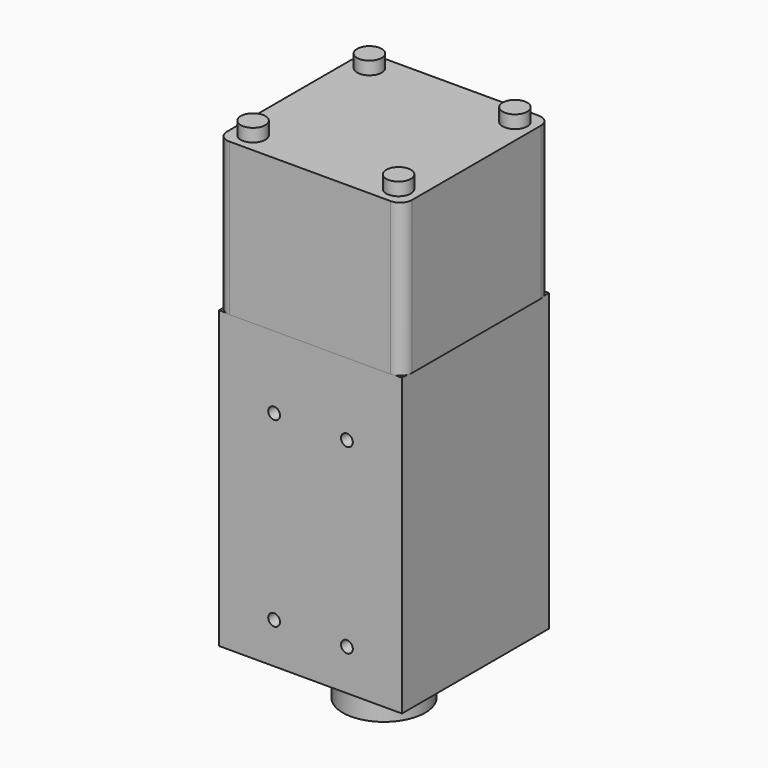
from build123d import *

# Parameters (mm, degrees)
SKETCH070_W     = 40.2
SKETCH070_H     = 40.4
PAD024_DEPTH    = 65
SKETCH071_R     = 1.3
POCKET037_DEPTH = 5
PAD025_DEPTH    = 33.5
SKETCH073_R     = 9.05
PAD026_DEPTH    = 11.66
SKETCH074_R     = 2.71
PAD027_DEPTH    = 2.85


with BuildPart() as part:
    # Sketch070 → Pad024 (new body)
    with BuildSketch(Plane.XY):
        Rectangle(SKETCH070_W, SKETCH070_H)
    extrude(amount=PAD024_DEPTH)

    # Sketch071 → Pocket037 (cut)
    with BuildSketch(Plane.XZ.offset(20.2)):
        with Locations((8, 9)):
            Circle(SKETCH071_R)
        with Locations((-8, 9)):
            Circle(SKETCH071_R)
        with Locations((-8, 49)):
            Circle(SKETCH071_R)
        with Locations((8, 49)):
            Circle(SKETCH071_R)
    extrude(amount=-POCKET037_DEPTH, mode=Mode.SUBTRACT)

    # Sketch072 → Pad025 (join)
    with BuildSketch(Plane.XY.offset(65)):
        with BuildLine():
            Line((-17.75, 20.35), (17.75, 20.35))
            ThreePointArc((20.35, 17.75), (19.588478, 19.588478), (17.75, 20.35))
            Line((20.35, 17.75), (20.35, -17.75))
            ThreePointArc((17.75, -20.35), (19.588478, -19.588478), (20.35, -17.75))
            Line((17.75, -20.35), (-17.75, -20.35))
            ThreePointArc((-20.35, -17.75), (-19.588478, -19.588478), (-17.75, -20.35))
            Line((-20.35, -17.75), (-20.35, 17.75))
            ThreePointArc((-17.75, 20.35), (-19.588478, 19.588478), (-20.35, 17.75))
        make_face()
    extrude(amount=PAD025_DEPTH)

    # Sketch073 → Pad026 (join)
    with BuildSketch(Plane.XY):
        Circle(SKETCH073_R)
    extrude(amount=-PAD026_DEPTH)

    # Sketch074 → Pad027 (join)
    with BuildSketch(Plane.XY.offset(98.5)):
        with Locations((-16, 16)):
            Circle(SKETCH074_R)
        with Locations((16, 16)):
            Circle(SKETCH074_R)
        with Locations((16, -16)):
            Circle(SKETCH074_R)
        with Locations((-16, -16)):
            Circle(SKETCH074_R)
    extrude(amount=PAD027_DEPTH)


solid = part.part
